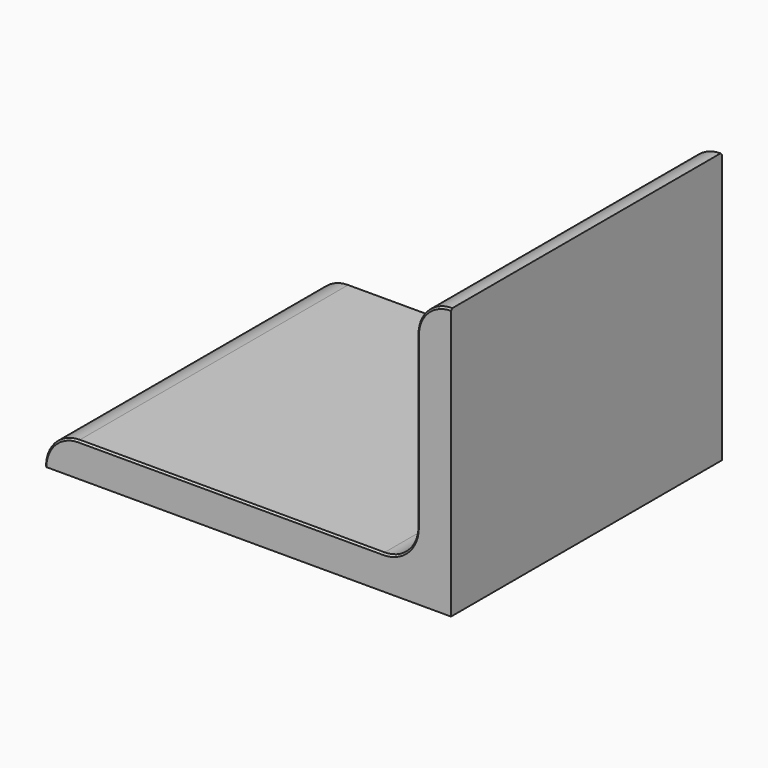
from build123d import *

# Parameters (mm, degrees)
F1_DEPTH = 31.75
F3_DEPTH = 25.4
F4_SIZE  = 0.3175


with BuildPart() as f1:
    # F0 (on Front) → F1 (new body, symmetric)
    with BuildSketch(Plane.XZ):
        with BuildLine():
            Line((-76.3057246804, 0), (-0.1057246804, 0))
            Line((-0.1057246804, 0), (-0.1057246804, 50.8))
            ThreePointArc((-0.1057246804, 50.8), (-4.595852741, 48.9401280605), (-6.4557246804, 44.45))
            Line((-6.4557246804, 44.45), (-6.4557246804, 12.7))
            ThreePointArc((-6.4557246804, 12.7), (-8.3155966199, 8.2098719395), (-12.8057246804, 6.35))
            Line((-12.8057246804, 6.35), (-69.9557246804, 6.35))
            ThreePointArc((-69.9557246804, 6.35), (-74.445852741, 4.4901280605), (-76.3057246804, 0))
        make_face()
    extrude(amount=F1_DEPTH, both=True)

    # F2 (on face) → F3 (cut)
    with BuildSketch(Plane(origin=(0, 0, 0), x_dir=(1, 0, 0), z_dir=(0, 0, -1))):
        with BuildLine():
            ThreePointArc((-34.925, -16.66875), (-42.06875, -19.05), (-34.925, -21.43125))
            Line((-34.925, -21.43125), (-34.925, -19.05))
            Line((-34.925, -19.05), (-34.925, -16.66875))
        make_face()
        with BuildLine():
            Line((-34.925, -19.05), (-34.925, -21.43125))
            ThreePointArc((-34.925, -21.43125), (-34.3349131609, -20.3050289464), (-34.13125, -19.05))
            ThreePointArc((-34.13125, -19.05), (-34.3349131609, -17.7949710536), (-34.925, -16.66875))
            Line((-34.925, -16.66875), (-34.925, -19.05))
        make_face()
    extrude(amount=-F3_DEPTH, mode=Mode.SUBTRACT)

    # F4
    f4_edges = [f1.edges().sort_by_distance(p)[0] for p in [
        (-41.275, 16.66875, 6.35),
        (-41.380725, 31.75, 6.35),
        (-41.380725, -31.75, 6.35),
        (-41.275, 16.66875, 0),
    ]]
    chamfer(f4_edges, length=F4_SIZE)


solid = f1.part
